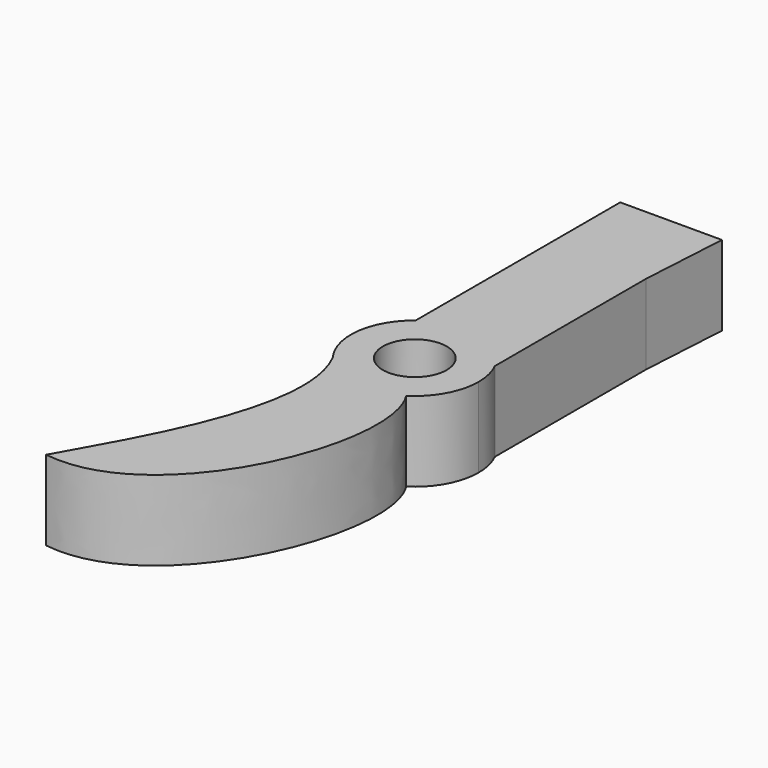
from build123d import *

# Parameters (mm, degrees)
F0_R     = 2
F1_DEPTH = 5


with BuildPart() as f1:
    # F0 (on Top) → F1 (new body)
    with BuildSketch(Plane.XY):
        with BuildLine():
            ThreePointArc((2.154363, -3.37027), (3.508379, -1.921269), (4, 0))
            ThreePointArc((4, 0), (3.891834, 0.923922), (3.573184, 1.797875))
            ThreePointArc((3.573184, 1.797875), (0.874624, 3.903208), (-2.464306, 3.150745))
            ThreePointArc((-2.464306, 3.150745), (-3.900783, 0.885376), (-3.583038, -1.778155))
            add(Edge.make_bspline(
                [(-3.583038, -1.778155), (-3.440916, -1.978992), (-3.313756, -2.186165), (-3.200704, -2.399062)],
                knots=[0, 0, 0, 0, 0.711286, 0.711286, 0.711286, 0.711286], degree=3))
            ThreePointArc((-3.200704, -2.399062), (-0.713806, -3.935795), (2.154363, -3.37027))
        make_face()
        Circle(F0_R, mode=Mode.SUBTRACT)
        with BuildLine():
            ThreePointArc((-2.464306, 3.150745), (0.874624, 3.903208), (3.573184, 1.797875))
            Line((3.573184, 1.797875), (3.573184, 13.636875))
            Line((3.573184, 13.636875), (3.899941, 19.150745))
            Line((3.899941, 19.150745), (-2.464306, 19.150745))
            Line((-2.464306, 19.150745), (-2.464306, 13.636875))
            Line((-2.464306, 13.636875), (-2.464306, 3.150745))
        make_face()
        with BuildLine():
            add(Edge.make_bspline(
                [(-7.687767, -19.23427), (0, -20.313614), (4.965235, -7.66067), (2.154363, -3.37027)],
                knots=[0, 0, 0, 0, 18.669066, 18.669066, 18.669066, 18.669066], degree=3))
            ThreePointArc((2.154363, -3.37027), (-0.713806, -3.935795), (-3.200704, -2.399062))
            add(Edge.make_bspline(
                [(-3.200704, -2.399062), (-0.463598, -7.553495), (-5.996348, -16.062861), (-7.687767, -19.23427)],
                knots=[0.711286, 0.711286, 0.711286, 0.711286, 17.932226, 17.932226, 17.932226, 17.932226], degree=3))
        make_face()
        with BuildLine():
            ThreePointArc((-3.583038, -1.778155), (-3.406049, -2.097339), (-3.200704, -2.399062))
            add(Edge.make_bspline(
                [(-3.583038, -1.778155), (-3.440916, -1.978992), (-3.313756, -2.186165), (-3.200704, -2.399062)],
                knots=[0, 0, 0, 0, 0.711286, 0.711286, 0.711286, 0.711286], degree=3))
        make_face()
    extrude(amount=F1_DEPTH)


solid = f1.part
